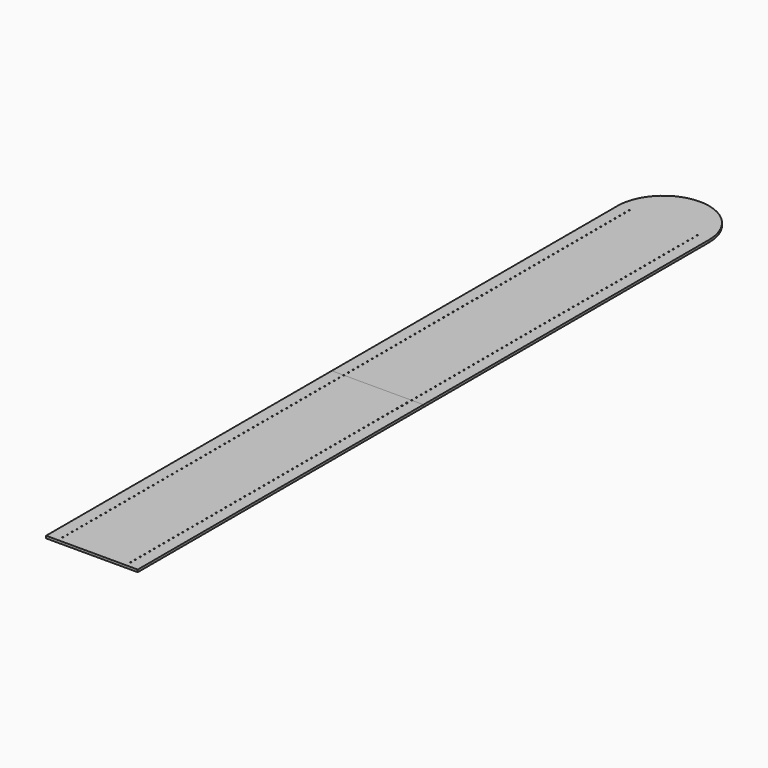
from build123d import *

# Parameters (mm, degrees)
SKETCH_R     = 0.5
PAD_DEPTH    = 2
SKETCH001_R  = 0.5
PAD001_DEPTH = 2


with BuildPart() as body:
    # Sketch → Pad (new body)
    with BuildSketch(Plane.XY):
        with BuildLine():
            Line((0, 0), (38.5, 0))
            Line((38.5, 0), (38.5, 300))
            Line((29, 300), (38.5, 300))
            ThreePointArc((28, 300), (28.5, 299.5), (29, 300))
            Line((28, 300), (0, 300))
            Line((0, 300), (0, 0))
        make_face()
        with Locations((28.5, 5)):
            Circle(SKETCH_R, mode=Mode.SUBTRACT)
        with Locations((28.5, 10)):
            Circle(SKETCH_R, mode=Mode.SUBTRACT)
        with Locations((28.5, 15)):
            Circle(SKETCH_R, mode=Mode.SUBTRACT)
        with Locations((28.5, 20)):
            Circle(SKETCH_R, mode=Mode.SUBTRACT)
        with Locations((28.5, 25)):
            Circle(SKETCH_R, mode=Mode.SUBTRACT)
        with Locations((28.5, 30)):
            Circle(SKETCH_R, mode=Mode.SUBTRACT)
        with Locations((28.5, 35)):
            Circle(SKETCH_R, mode=Mode.SUBTRACT)
        with Locations((28.5, 40)):
            Circle(SKETCH_R, mode=Mode.SUBTRACT)
        with Locations((28.5, 45)):
            Circle(SKETCH_R, mode=Mode.SUBTRACT)
        with Locations((28.5, 50)):
            Circle(SKETCH_R, mode=Mode.SUBTRACT)
        with Locations((28.5, 55)):
            Circle(SKETCH_R, mode=Mode.SUBTRACT)
        with Locations((28.5, 60)):
            Circle(SKETCH_R, mode=Mode.SUBTRACT)
        with Locations((28.5, 65)):
            Circle(SKETCH_R, mode=Mode.SUBTRACT)
        with Locations((28.5, 70)):
            Circle(SKETCH_R, mode=Mode.SUBTRACT)
        with Locations((28.5, 75)):
            Circle(SKETCH_R, mode=Mode.SUBTRACT)
        with Locations((28.5, 80)):
            Circle(SKETCH_R, mode=Mode.SUBTRACT)
        with Locations((28.5, 85)):
            Circle(SKETCH_R, mode=Mode.SUBTRACT)
        with Locations((28.5, 90)):
            Circle(SKETCH_R, mode=Mode.SUBTRACT)
        with Locations((28.5, 95)):
            Circle(SKETCH_R, mode=Mode.SUBTRACT)
        with Locations((28.5, 100)):
            Circle(SKETCH_R, mode=Mode.SUBTRACT)
        with Locations((28.5, 105)):
            Circle(SKETCH_R, mode=Mode.SUBTRACT)
        with Locations((28.5, 110)):
            Circle(SKETCH_R, mode=Mode.SUBTRACT)
        with Locations((28.5, 115)):
            Circle(SKETCH_R, mode=Mode.SUBTRACT)
        with Locations((28.5, 120)):
            Circle(SKETCH_R, mode=Mode.SUBTRACT)
        with Locations((28.5, 125)):
            Circle(SKETCH_R, mode=Mode.SUBTRACT)
        with Locations((28.5, 130)):
            Circle(SKETCH_R, mode=Mode.SUBTRACT)
        with Locations((28.5, 135)):
            Circle(SKETCH_R, mode=Mode.SUBTRACT)
        with Locations((28.5, 140)):
            Circle(SKETCH_R, mode=Mode.SUBTRACT)
        with Locations((28.5, 145)):
            Circle(SKETCH_R, mode=Mode.SUBTRACT)
        with Locations((28.5, 150)):
            Circle(SKETCH_R, mode=Mode.SUBTRACT)
        with Locations((28.5, 155)):
            Circle(SKETCH_R, mode=Mode.SUBTRACT)
        with Locations((28.5, 160)):
            Circle(SKETCH_R, mode=Mode.SUBTRACT)
        with Locations((28.5, 165)):
            Circle(SKETCH_R, mode=Mode.SUBTRACT)
        with Locations((28.5, 170)):
            Circle(SKETCH_R, mode=Mode.SUBTRACT)
        with Locations((28.5, 175)):
            Circle(SKETCH_R, mode=Mode.SUBTRACT)
        with Locations((28.5, 180)):
            Circle(SKETCH_R, mode=Mode.SUBTRACT)
        with Locations((28.5, 185)):
            Circle(SKETCH_R, mode=Mode.SUBTRACT)
        with Locations((28.5, 190)):
            Circle(SKETCH_R, mode=Mode.SUBTRACT)
        with Locations((28.5, 195)):
            Circle(SKETCH_R, mode=Mode.SUBTRACT)
        with Locations((28.5, 200)):
            Circle(SKETCH_R, mode=Mode.SUBTRACT)
        with Locations((28.5, 205)):
            Circle(SKETCH_R, mode=Mode.SUBTRACT)
        with Locations((28.5, 210)):
            Circle(SKETCH_R, mode=Mode.SUBTRACT)
        with Locations((28.5, 215)):
            Circle(SKETCH_R, mode=Mode.SUBTRACT)
        with Locations((28.5, 220)):
            Circle(SKETCH_R, mode=Mode.SUBTRACT)
        with Locations((28.5, 225)):
            Circle(SKETCH_R, mode=Mode.SUBTRACT)
        with Locations((28.5, 230)):
            Circle(SKETCH_R, mode=Mode.SUBTRACT)
        with Locations((28.5, 235)):
            Circle(SKETCH_R, mode=Mode.SUBTRACT)
        with Locations((28.5, 240)):
            Circle(SKETCH_R, mode=Mode.SUBTRACT)
        with Locations((28.5, 245)):
            Circle(SKETCH_R, mode=Mode.SUBTRACT)
        with Locations((28.5, 250)):
            Circle(SKETCH_R, mode=Mode.SUBTRACT)
        with Locations((28.5, 255)):
            Circle(SKETCH_R, mode=Mode.SUBTRACT)
        with Locations((28.5, 260)):
            Circle(SKETCH_R, mode=Mode.SUBTRACT)
        with Locations((28.5, 265)):
            Circle(SKETCH_R, mode=Mode.SUBTRACT)
        with Locations((28.5, 270)):
            Circle(SKETCH_R, mode=Mode.SUBTRACT)
        with Locations((28.5, 275)):
            Circle(SKETCH_R, mode=Mode.SUBTRACT)
        with Locations((28.5, 280)):
            Circle(SKETCH_R, mode=Mode.SUBTRACT)
        with Locations((28.5, 285)):
            Circle(SKETCH_R, mode=Mode.SUBTRACT)
        with Locations((28.5, 290)):
            Circle(SKETCH_R, mode=Mode.SUBTRACT)
        with Locations((28.5, 295)):
            Circle(SKETCH_R, mode=Mode.SUBTRACT)
    pad = extrude(amount=PAD_DEPTH)

    # Mirrored: Pad across Sketch V_Axis
    add(pad.mirror(Plane(origin=(0, 0, 0), x_dir=(0, 0, 1), z_dir=(1, 0, 0))))


with BuildPart() as body001:
    # Sketch001 → Pad001 (new body)
    with BuildSketch(Plane.XY):
        with BuildLine():
            ThreePointArc((38.5, 600), (27.223611, 627.223611), (0, 638.5))
            Line((0, 300), (0, 638.5))
            Line((0, 300), (28, 300))
            ThreePointArc((29, 300), (28.5, 300.5), (28, 300))
            Line((29, 300), (38.5, 300))
            Line((38.5, 300), (38.5, 600))
        make_face()
        with Locations((28.5, 305)):
            Circle(SKETCH001_R, mode=Mode.SUBTRACT)
        with Locations((28.5, 310)):
            Circle(SKETCH001_R, mode=Mode.SUBTRACT)
        with Locations((28.5, 315)):
            Circle(SKETCH001_R, mode=Mode.SUBTRACT)
        with Locations((28.5, 320)):
            Circle(SKETCH001_R, mode=Mode.SUBTRACT)
        with Locations((28.5, 325)):
            Circle(SKETCH001_R, mode=Mode.SUBTRACT)
        with Locations((28.5, 330)):
            Circle(SKETCH001_R, mode=Mode.SUBTRACT)
        with Locations((28.5, 335)):
            Circle(SKETCH001_R, mode=Mode.SUBTRACT)
        with Locations((28.5, 340)):
            Circle(SKETCH001_R, mode=Mode.SUBTRACT)
        with Locations((28.5, 345)):
            Circle(SKETCH001_R, mode=Mode.SUBTRACT)
        with Locations((28.5, 350)):
            Circle(SKETCH001_R, mode=Mode.SUBTRACT)
        with Locations((28.5, 355)):
            Circle(SKETCH001_R, mode=Mode.SUBTRACT)
        with Locations((28.5, 360)):
            Circle(SKETCH001_R, mode=Mode.SUBTRACT)
        with Locations((28.5, 365)):
            Circle(SKETCH001_R, mode=Mode.SUBTRACT)
        with Locations((28.5, 370)):
            Circle(SKETCH001_R, mode=Mode.SUBTRACT)
        with Locations((28.5, 375)):
            Circle(SKETCH001_R, mode=Mode.SUBTRACT)
        with Locations((28.5, 380)):
            Circle(SKETCH001_R, mode=Mode.SUBTRACT)
        with Locations((28.5, 385)):
            Circle(SKETCH001_R, mode=Mode.SUBTRACT)
        with Locations((28.5, 390)):
            Circle(SKETCH001_R, mode=Mode.SUBTRACT)
        with Locations((28.5, 395)):
            Circle(SKETCH001_R, mode=Mode.SUBTRACT)
        with Locations((28.5, 400)):
            Circle(SKETCH001_R, mode=Mode.SUBTRACT)
        with Locations((28.5, 405)):
            Circle(SKETCH001_R, mode=Mode.SUBTRACT)
        with Locations((28.5, 410)):
            Circle(SKETCH001_R, mode=Mode.SUBTRACT)
        with Locations((28.5, 415)):
            Circle(SKETCH001_R, mode=Mode.SUBTRACT)
        with Locations((28.5, 420)):
            Circle(SKETCH001_R, mode=Mode.SUBTRACT)
        with Locations((28.5, 425)):
            Circle(SKETCH001_R, mode=Mode.SUBTRACT)
        with Locations((28.5, 430)):
            Circle(SKETCH001_R, mode=Mode.SUBTRACT)
        with Locations((28.5, 435)):
            Circle(SKETCH001_R, mode=Mode.SUBTRACT)
        with Locations((28.5, 440)):
            Circle(SKETCH001_R, mode=Mode.SUBTRACT)
        with Locations((28.5, 445)):
            Circle(SKETCH001_R, mode=Mode.SUBTRACT)
        with Locations((28.5, 450)):
            Circle(SKETCH001_R, mode=Mode.SUBTRACT)
        with Locations((28.5, 455)):
            Circle(SKETCH001_R, mode=Mode.SUBTRACT)
        with Locations((28.5, 460)):
            Circle(SKETCH001_R, mode=Mode.SUBTRACT)
        with Locations((28.5, 465)):
            Circle(SKETCH001_R, mode=Mode.SUBTRACT)
        with Locations((28.5, 470)):
            Circle(SKETCH001_R, mode=Mode.SUBTRACT)
        with Locations((28.5, 475)):
            Circle(SKETCH001_R, mode=Mode.SUBTRACT)
        with Locations((28.5, 480)):
            Circle(SKETCH001_R, mode=Mode.SUBTRACT)
        with Locations((28.5, 485)):
            Circle(SKETCH001_R, mode=Mode.SUBTRACT)
        with Locations((28.5, 490)):
            Circle(SKETCH001_R, mode=Mode.SUBTRACT)
        with Locations((28.5, 495)):
            Circle(SKETCH001_R, mode=Mode.SUBTRACT)
        with Locations((28.5, 500)):
            Circle(SKETCH001_R, mode=Mode.SUBTRACT)
        with Locations((28.5, 505)):
            Circle(SKETCH001_R, mode=Mode.SUBTRACT)
        with Locations((28.5, 510)):
            Circle(SKETCH001_R, mode=Mode.SUBTRACT)
        with Locations((28.5, 515)):
            Circle(SKETCH001_R, mode=Mode.SUBTRACT)
        with Locations((28.5, 520)):
            Circle(SKETCH001_R, mode=Mode.SUBTRACT)
        with Locations((28.5, 525)):
            Circle(SKETCH001_R, mode=Mode.SUBTRACT)
        with Locations((28.5, 530)):
            Circle(SKETCH001_R, mode=Mode.SUBTRACT)
        with Locations((28.5, 535)):
            Circle(SKETCH001_R, mode=Mode.SUBTRACT)
        with Locations((28.5, 540)):
            Circle(SKETCH001_R, mode=Mode.SUBTRACT)
        with Locations((28.5, 545)):
            Circle(SKETCH001_R, mode=Mode.SUBTRACT)
        with Locations((28.5, 550)):
            Circle(SKETCH001_R, mode=Mode.SUBTRACT)
        with Locations((28.5, 555)):
            Circle(SKETCH001_R, mode=Mode.SUBTRACT)
        with Locations((28.5, 560)):
            Circle(SKETCH001_R, mode=Mode.SUBTRACT)
        with Locations((28.5, 565)):
            Circle(SKETCH001_R, mode=Mode.SUBTRACT)
        with Locations((28.5, 570)):
            Circle(SKETCH001_R, mode=Mode.SUBTRACT)
        with Locations((28.5, 575)):
            Circle(SKETCH001_R, mode=Mode.SUBTRACT)
        with Locations((28.5, 580)):
            Circle(SKETCH001_R, mode=Mode.SUBTRACT)
        with Locations((28.5, 585)):
            Circle(SKETCH001_R, mode=Mode.SUBTRACT)
        with Locations((28.5, 590)):
            Circle(SKETCH001_R, mode=Mode.SUBTRACT)
        with Locations((28.5, 595)):
            Circle(SKETCH001_R, mode=Mode.SUBTRACT)
        with Locations((28.5, 600)):
            Circle(SKETCH001_R, mode=Mode.SUBTRACT)
    pad001 = extrude(amount=PAD001_DEPTH)

    # Mirrored001: Pad001 across Sketch001 V_Axis
    add(pad001.mirror(Plane(origin=(0, 0, 0), x_dir=(0, 0, 1), z_dir=(1, 0, 0))))


solid = Compound([body.part, body001.part])
